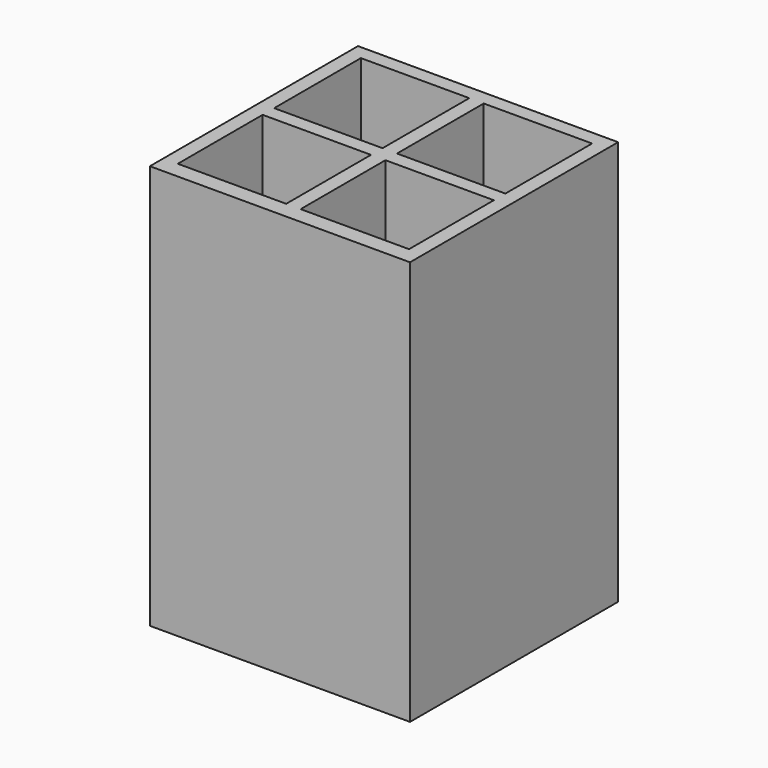
from build123d import *

# Parameters (mm, degrees)
F0_W     = 57.15
F0_H     = 57.15
F1_DEPTH = 88.9
F2_W     = 23.8125
F2_H     = 23.8125
F2_H_2   = 23.289795
F3_DEPTH = 85.725


with BuildPart() as f1:
    # F0 (on Top) → F1 (new body)
    with BuildSketch(Plane.XY):
        Rectangle(F0_W, F0_H)
    extrude(amount=F1_DEPTH)

    # F2 (on face) → F3 (cut)
    with BuildSketch(Plane.XY.offset(88.9)):
        with Locations((13.49375, 13.49375)):
            Rectangle(F2_W, F2_H)
        with Locations((-13.49375, 13.49375)):
            Rectangle(F2_W, F2_H)
        with Locations((-13.49375, -13.232397)):
            Rectangle(F2_W, F2_H_2)
        with Locations((13.49375, -13.232397)):
            Rectangle(F2_W, F2_H_2)
    extrude(amount=-F3_DEPTH, mode=Mode.SUBTRACT)


solid = f1.part
